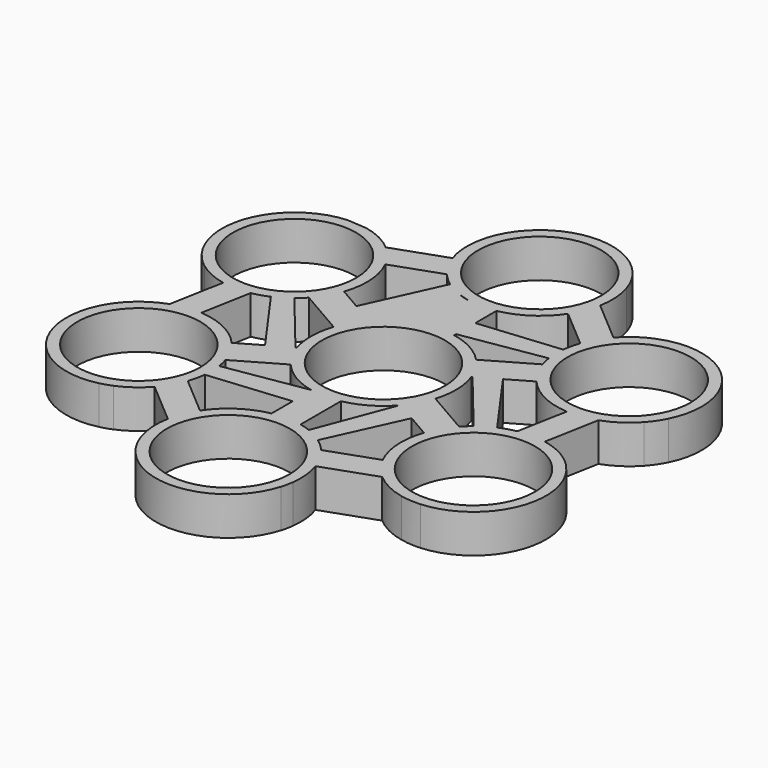
from build123d import *

# Parameters (mm, degrees)
F0_R     = 11.2
F1_DEPTH = 7


with BuildPart() as f1:
    # F0 (on Top) → F1 (new body)
    with BuildSketch(Plane.XY):
        with BuildLine():
            Line((20.60563, 26.555137), (12.969892, 33.086074))
            ThreePointArc((12.969892, 33.086074), (13.174742, 36.356221), (12.567829, 39.576077))
            ThreePointArc((12.567829, 39.576077), (11.886143, 41.281075), (10.974449, 42.874979))
            ThreePointArc((10.974449, 42.874979), (-1.966663, 48.592701), (-12.648497, 39.315678))
            Line((-12.648497, 39.315678), (-13.099321, 37.167231))
            ThreePointArc((-13.099321, 37.167231), (-13.135205, 34.233743), (-12.522272, 31.364779))
            Line((-12.522272, 31.364779), (-21.996098, 28.017505))
            ThreePointArc((-21.996098, 28.017505), (-24.725703, 29.829983), (-27.817638, 30.914309))
            Line((-27.817638, 30.914309), (-31.47126, 31.183852))
            ThreePointArc((-31.47126, 31.183852), (-42.893509, 22.835381), (-40.200288, 8.94613))
            ThreePointArc((-40.200288, 8.94613), (-39.41319, 8.179754), (-38.565091, 7.481482))
            ThreePointArc((-38.565091, 7.481482), (-36.042557, 5.983661), (-33.251495, 5.079996))
            Line((-33.251495, 5.079996), (-35.089584, -4.798216))
            ThreePointArc((-35.089584, -4.798216), (-38.024038, -6.255884), (-40.509059, -8.391415))
            ThreePointArc((-40.509059, -8.391415), (-41.644788, -9.834271), (-42.569301, -11.420773))
            ThreePointArc((-42.569301, -11.420773), (-41.050438, -25.486966), (-27.675384, -30.099194))
            ThreePointArc((-27.675384, -30.099194), (-26.618133, -29.800735), (-25.589362, -29.415396))
            ThreePointArc((-25.589362, -29.415396), (-23.030945, -27.979728), (-20.852816, -26.01443))
            Line((-20.852816, -26.01443), (-13.217078, -32.545368))
            ThreePointArc((-13.217078, -32.545368), (-13.421928, -35.815514), (-12.815014, -39.035371))
            ThreePointArc((-12.815014, -39.035371), (-12.133329, -40.740369), (-11.221634, -42.334272))
            ThreePointArc((-11.221634, -42.334272), (1.719478, -48.051994), (12.401311, -38.774971))
            ThreePointArc((12.401311, -38.774971), (12.671463, -37.710136), (12.852135, -36.626524))
            ThreePointArc((12.852135, -36.626524), (12.888019, -33.693036), (12.275086, -30.824072))
            Line((12.275086, -30.824072), (21.748913, -27.476798))
            ThreePointArc((21.748913, -27.476798), (24.478517, -29.289276), (27.570452, -30.373602))
            ThreePointArc((27.570452, -30.373602), (29.387866, -30.635744), (31.224074, -30.643145))
            ThreePointArc((31.224074, -30.643145), (42.646323, -22.294675), (39.953102, -8.405424))
            ThreePointArc((39.953102, -8.405424), (39.166004, -7.639048), (38.317905, -6.940775))
            ThreePointArc((38.317905, -6.940775), (35.795371, -5.442955), (33.004309, -4.539289))
            Line((33.004309, -4.539289), (34.842398, 5.338923))
            ThreePointArc((34.842398, 5.338923), (37.776853, 6.796591), (40.261873, 8.932122))
            ThreePointArc((40.261873, 8.932122), (41.397602, 10.374978), (42.322116, 11.96148))
            ThreePointArc((42.322116, 11.96148), (40.803253, 26.027673), (27.428198, 30.639901))
            Line((27.428198, 30.639901), (25.342176, 29.956103))
            ThreePointArc((25.342176, 29.956103), (22.783759, 28.520435), (20.60563, 26.555137))
        make_face()
        with Locations((-0.247186, -34.999323)):
            Circle(F0_R, mode=Mode.SUBTRACT)
        with Locations((-30.729825, -17.25745)):
            Circle(F0_R, mode=Mode.SUBTRACT)
        with BuildLine():
            Line((-16.589028, -6.209999), (-20.753169, -8.614167))
            ThreePointArc((-20.753169, -8.614167), (-24.873356, -5.427752), (-29.905395, -4.083221))
            Line((-29.905395, -4.083221), (-28.209342, 5.031667))
            ThreePointArc((-28.209342, 5.031667), (-26.705532, 5.401733), (-25.255414, 5.945381))
            Line((-25.255414, 5.945381), (-16.589028, -6.209999))
        make_face(mode=Mode.SUBTRACT)
        with BuildLine():
            ThreePointArc((-2.744161, -22.037644), (-7.563771, -24.012623), (-11.244188, -27.698231))
            Line((-11.244188, -27.698231), (-18.289886, -21.671962))
            ThreePointArc((-18.289886, -21.671962), (-17.858467, -20.184591), (-17.604222, -18.656928))
            Line((-17.604222, -18.656928), (-2.744161, -17.229308))
            Line((-2.744161, -17.229308), (-2.744161, -22.037644))
        make_face(mode=Mode.SUBTRACT)
        with BuildLine():
            Line((-18.144567, -13.276083), (-10.024378, -8.58789))
            ThreePointArc((-10.024378, -8.58789), (-6.80271, -11.312079), (-2.886078, -12.880627))
            Line((-2.886078, -12.880627), (-17.677064, -15.291378))
            ThreePointArc((-17.677064, -15.291378), (-17.871273, -14.274558), (-18.144567, -13.276083))
        make_face(mode=Mode.SUBTRACT)
        with BuildLine():
            Line((2.597478, -22.109486), (2.597478, -12.941913))
            ThreePointArc((2.597478, -12.941913), (6.561509, -11.453672), (9.850395, -8.786907))
            Line((9.850395, -8.786907), (4.576526, -22.712264))
            ThreePointArc((4.576526, -22.712264), (3.598829, -22.372044), (2.597478, -22.109486))
        make_face(mode=Mode.SUBTRACT)
        with BuildLine():
            ThreePointArc((17.885416, -13.153124), (17.185992, -18.314518), (18.537614, -23.344657))
            Line((18.537614, -23.344657), (9.795863, -26.433276))
            ThreePointArc((9.795863, -26.433276), (8.723471, -25.315971), (7.5276, -24.331956))
            Line((7.5276, -24.331956), (13.721275, -10.748956))
            Line((13.721275, -10.748956), (17.885416, -13.153124))
        make_face(mode=Mode.SUBTRACT)
        Circle(F0_R, mode=Mode.SUBTRACT)
        with BuildLine():
            Line((20.618452, -8.56305), (12.60023, -3.933727))
            ThreePointArc((12.60023, -3.933727), (13.196812, 0.290111), (12.415187, 4.483651))
            Line((12.415187, 4.483651), (12.555742, 4.5648))
            Line((12.555742, 4.5648), (22.129997, -7.150533))
            ThreePointArc((22.129997, -7.150533), (21.34651, -7.827133), (20.618452, -8.56305))
        make_face(mode=Mode.SUBTRACT)
        with Locations((30.359046, -17.471519)):
            Circle(F0_R, mode=Mode.SUBTRACT)
        with Locations((-30.606232, 18.012226)):
            Circle(F0_R, mode=Mode.SUBTRACT)
        with BuildLine():
            Line((-20.865638, 9.103756), (-12.490782, 4.268531))
            ThreePointArc((-12.490782, 4.268531), (-13.198662, 0.187953), (-12.607263, -3.911126))
            Line((-12.607263, -3.911126), (-12.802928, -4.024093))
            Line((-12.802928, -4.024093), (-22.377183, 7.69124))
            ThreePointArc((-22.377183, 7.69124), (-21.593695, 8.36784), (-20.865638, 9.103756))
        make_face(mode=Mode.SUBTRACT)
        with BuildLine():
            ThreePointArc((-10.043049, 26.973982), (-8.970657, 25.856677), (-7.774785, 24.872663))
            Line((-7.774785, 24.872663), (-13.96846, 11.289662))
            Line((-13.96846, 11.289662), (-18.132602, 13.69383))
            ThreePointArc((-18.132602, 13.69383), (-17.433178, 18.855224), (-18.7848, 23.885364))
            Line((-18.7848, 23.885364), (-10.043049, 26.973982))
        make_face(mode=Mode.SUBTRACT)
        with BuildLine():
            Line((-4.823712, 23.252971), (-2.844664, 22.650193))
            ThreePointArc((-2.844664, 22.650193), (-3.846015, 22.912751), (-4.823712, 23.252971))
        make_face(mode=Mode.SUBTRACT)
        with BuildLine():
            Line((17.897381, 13.81679), (9.620439, 9.038095))
            ThreePointArc((9.620439, 9.038095), (6.368403, 11.562156), (2.496975, 12.961679))
            Line((2.496975, 12.961679), (2.496975, 13.398203))
            Line((2.496975, 13.398203), (17.429879, 15.832084))
            ThreePointArc((17.429879, 15.832084), (17.624087, 14.815264), (17.897381, 13.81679))
        make_face(mode=Mode.SUBTRACT)
        with BuildLine():
            ThreePointArc((2.496975, 22.578351), (7.316585, 24.553329), (10.997002, 28.238938))
            Line((10.997002, 28.238938), (18.0427, 22.212669))
            ThreePointArc((18.0427, 22.212669), (17.611282, 20.725298), (17.357036, 19.197635))
            Line((17.357036, 19.197635), (2.496975, 17.770015))
            Line((2.496975, 17.770015), (2.496975, 22.578351))
        make_face(mode=Mode.SUBTRACT)
        with BuildLine():
            Line((29.658209, 4.623928), (27.962156, -4.49096))
            ThreePointArc((27.962156, -4.49096), (26.458346, -4.861026), (25.008228, -5.404674))
            Line((25.008228, -5.404674), (16.341842, 6.750706))
            Line((16.341842, 6.750706), (20.505983, 9.154874))
            ThreePointArc((20.505983, 9.154874), (24.62617, 5.968458), (29.658209, 4.623928))
        make_face(mode=Mode.SUBTRACT)
        with Locations((30.482639, 17.798157)):
            Circle(F0_R, mode=Mode.SUBTRACT)
        with Locations((0, 35.54003)):
            Circle(F0_R, mode=Mode.SUBTRACT)
    extrude(amount=-F1_DEPTH)


solid = f1.part
